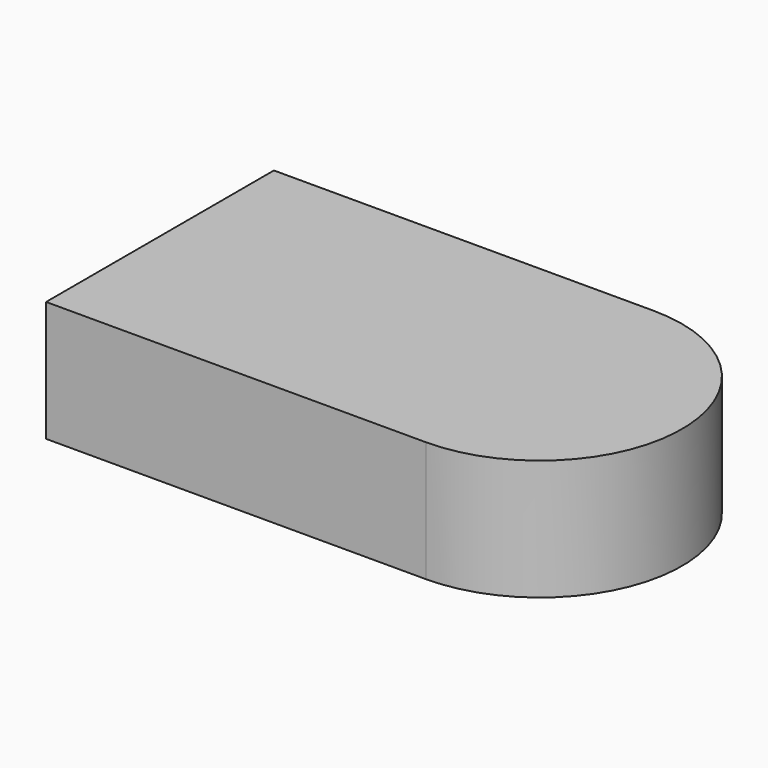
from build123d import *

# Parameters (mm, degrees)
F1_DEPTH = 12.7
F2_T     = -2.54


with BuildPart() as f1:
    # F0 (on Top) → F1 (new body)
    with BuildSketch(Plane.XY):
        with BuildLine():
            Line((0, 15), (-20, 15))
            Line((-20, 15), (-20, -15))
            Line((-20, -15), (20, -15))
            ThreePointArc((20, -15), (9.3933982822, -10.6066017178), (5, 0))
            Line((5, 0), (0, 0))
            Line((0, 0), (0, 15))
        make_face()
        with BuildLine():
            Line((20, 15), (0, 15))
            Line((0, 15), (0, 0))
            Line((0, 0), (5, 0))
            ThreePointArc((5, 0), (9.3933982822, 10.6066017178), (20, 15))
        make_face()
        with BuildLine():
            ThreePointArc((35, 0), (30.6066017178, 10.6066017178), (20, 15))
            Line((20, 15), (20, 0))
            Line((20, 0), (20, -15))
            ThreePointArc((20, -15), (30.6066017178, -10.6066017178), (35, 0))
        make_face()
        with BuildLine():
            Line((20, 0), (20, 15))
            ThreePointArc((20, 15), (9.3933982822, 10.6066017178), (5, 0))
            Line((5, 0), (20, 0))
        make_face()
        with BuildLine():
            ThreePointArc((5, 0), (9.3933982822, -10.6066017178), (20, -15))
            Line((20, -15), (20, 0))
            Line((20, 0), (5, 0))
        make_face()
    extrude(amount=F1_DEPTH)

    # F2
    f2_openings = [f1.faces().sort_by_distance(p)[0] for p in [
        (-20, 0, 6.35),
    ]]
    offset(amount=F2_T, openings=f2_openings)


solid = f1.part
